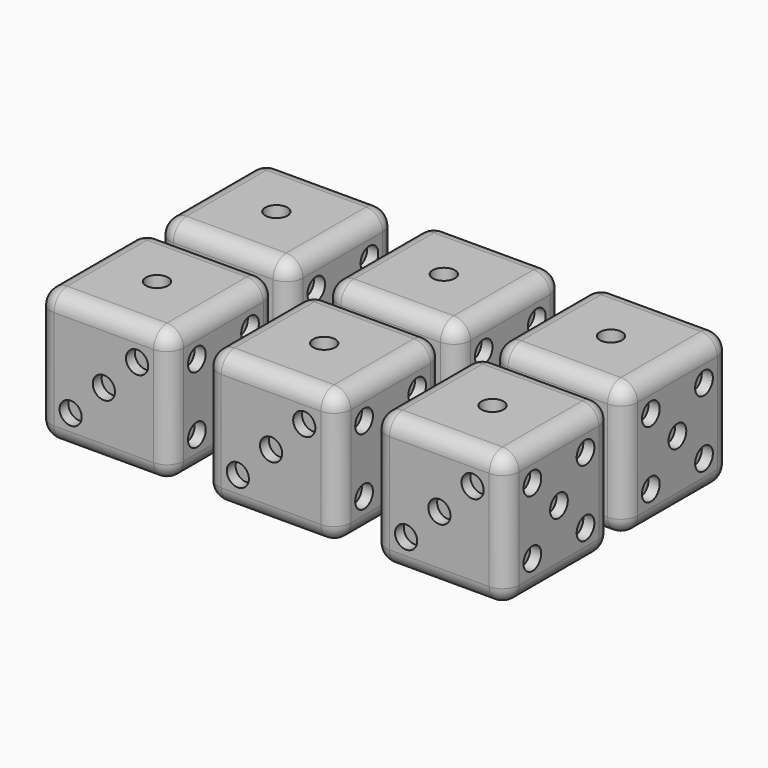
from build123d import *

# Parameters (mm, degrees)
F0_W      = 12
F0_H      = 12
F1_DEPTH  = 12
F2_R      = 1
F3_DEPTH  = 2
F4_R      = 1
F5_DEPTH  = 1
F6_R      = 1
F7_DEPTH  = 1
F8_R      = 1
F9_DEPTH  = 1
F10_R     = 1
F11_DEPTH = 1
F12_R     = 1
F13_DEPTH = 1
F14_R     = 1.5


with BuildPart() as f1:
    # F0 (on Top) → F1 (new body)
    with BuildSketch(Plane.XY):
        Rectangle(F0_W, F0_H)
    extrude(amount=F1_DEPTH)

    # F2 (on face) → F3 (cut)
    with BuildSketch(Plane.XY.offset(12)):
        Circle(F2_R)
    extrude(amount=-F3_DEPTH, mode=Mode.SUBTRACT)

    # F4 (on face) → F5 (cut)
    with BuildSketch(Plane(origin=(-6, 0, 0), x_dir=(0, -1, 0), z_dir=(-1, 0, 0))):
        with Locations((-3, 9)):
            Circle(F4_R)
        with Locations((3, 3)):
            Circle(F4_R)
    extrude(amount=-F5_DEPTH, mode=Mode.SUBTRACT)

    # F6 (on face) → F7 (cut)
    with BuildSketch(Plane.XZ.offset(6)):
        with Locations((-3, 3)):
            Circle(F6_R)
        with Locations((0, 6)):
            Circle(F6_R)
        with Locations((3, 9)):
            Circle(F6_R)
    extrude(amount=-F7_DEPTH, mode=Mode.SUBTRACT)

    # F8 (on face) → F9 (cut)
    with BuildSketch(Plane.YZ.offset(6)):
        with Locations((-3, 9)):
            Circle(F8_R)
        with Locations((3, 9)):
            Circle(F8_R)
        with Locations((0, 6)):
            Circle(F8_R)
        with Locations((3, 3)):
            Circle(F8_R)
        with Locations((-3, 3)):
            Circle(F8_R)
    extrude(amount=-F9_DEPTH, mode=Mode.SUBTRACT)

    # F10 (on face) → F11 (cut)
    with BuildSketch(Plane(origin=(0, 6, 0), x_dir=(-1, 0, 0), z_dir=(0, 1, 0))):
        with Locations((-3, 9)):
            Circle(F10_R)
        with Locations((3, 9)):
            Circle(F10_R)
        with Locations((-3, 3)):
            Circle(F10_R)
        with Locations((3, 3)):
            Circle(F10_R)
    extrude(amount=-F11_DEPTH, mode=Mode.SUBTRACT)

    # F12 (on face) → F13 (cut)
    with BuildSketch(Plane(origin=(0, 0, 0), x_dir=(1, 0, 0), z_dir=(0, 0, -1))):
        with Locations((-3, -3)):
            Circle(F12_R)
        with Locations((0, -3)):
            Circle(F12_R)
        with Locations((3, -3)):
            Circle(F12_R)
        with Locations((3, 3)):
            Circle(F12_R)
        with Locations((0, 3)):
            Circle(F12_R)
        with Locations((-3, 3)):
            Circle(F12_R)
    extrude(amount=-F13_DEPTH, mode=Mode.SUBTRACT)

    # F14
    f14_edges = [f1.edges().sort_by_distance(p)[0] for p in [
        (-6, 0, 12),
        (0, 6, 12),
        (6, 0, 12),
        (0, -6, 12),
        (-6, -6, 6),
        (6, -6, 6),
        (0, -6, 0),
        (-6, 0, 0),
        (-6, 6, 6),
        (6, 6, 6),
        (6, 0, 0),
        (0, 6, 0),
    ]]
    fillet(f14_edges, radius=F14_R)


with BuildPart() as f15_1:
    # F15: copy of F1
    add(f1.part.moved(Location((13.8, 0, 0))))


with BuildPart() as f16_1:
    # F16: copy of F1
    add(f1.part.moved(Location((-14, 0, 0))))


with BuildPart() as f17_1:
    # F17: copy of F1
    add(f1.part.moved(Location((0, 13.5, 0))))


with BuildPart() as f20_1:
    # F20: copy of F1
    add(f1.part.moved(Location((15.2, 0, 0))))


with BuildPart() as f21_1:
    # F21: copy of F1
    add(f1.part.moved(Location((15.1, 13.5, 0))))


with BuildPart() as f22_1:
    # F22: copy of F1
    add(f1.part.moved(Location((-15.1, 0, 0))))


with BuildPart() as f23_1:
    # F23: copy of F1
    add(f1.part.moved(Location((-15.2, 13.6, 0))))


solid = Compound([f1.part, f17_1.part, f20_1.part, f21_1.part, f22_1.part, f23_1.part])
